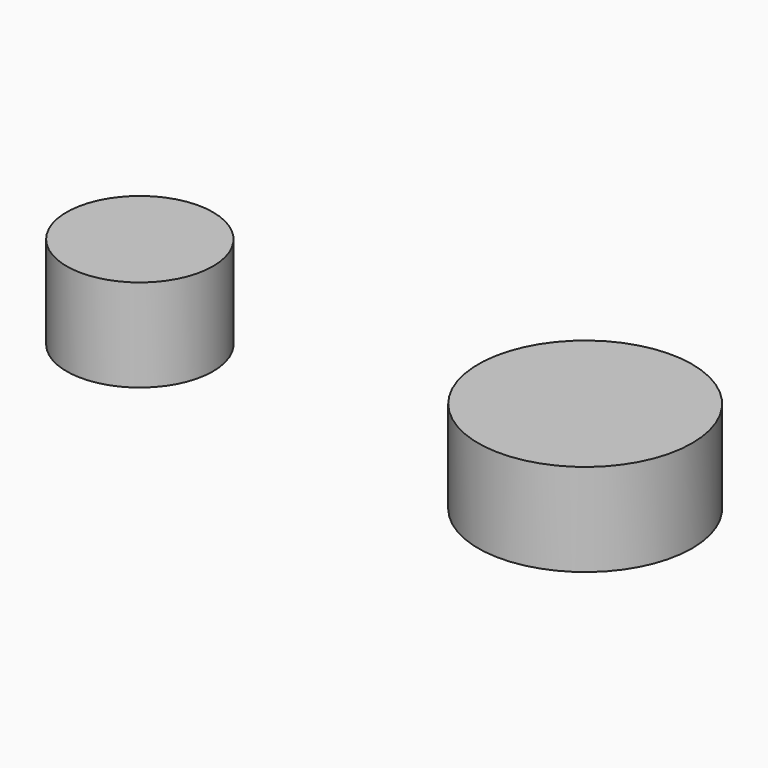
from build123d import *

# Parameters (mm, degrees)
F0_R     = 23.115518
F1_DEPTH = 20
F2_R     = 15.819698
F3_DEPTH = 20


with BuildPart() as f1:
    # F0 (on Top) → F1 (new body)
    with BuildSketch(Plane.XY):
        with Locations((46.562389, 0)):
            Circle(F0_R)
    extrude(amount=F1_DEPTH)


with BuildPart() as f3:
    # F2 (on Top) → F3 (new body)
    with BuildSketch(Plane.XY):
        with Locations((-49.687561, 0)):
            Circle(F2_R)
    extrude(amount=F3_DEPTH)


solid = Compound([f1.part, f3.part])
